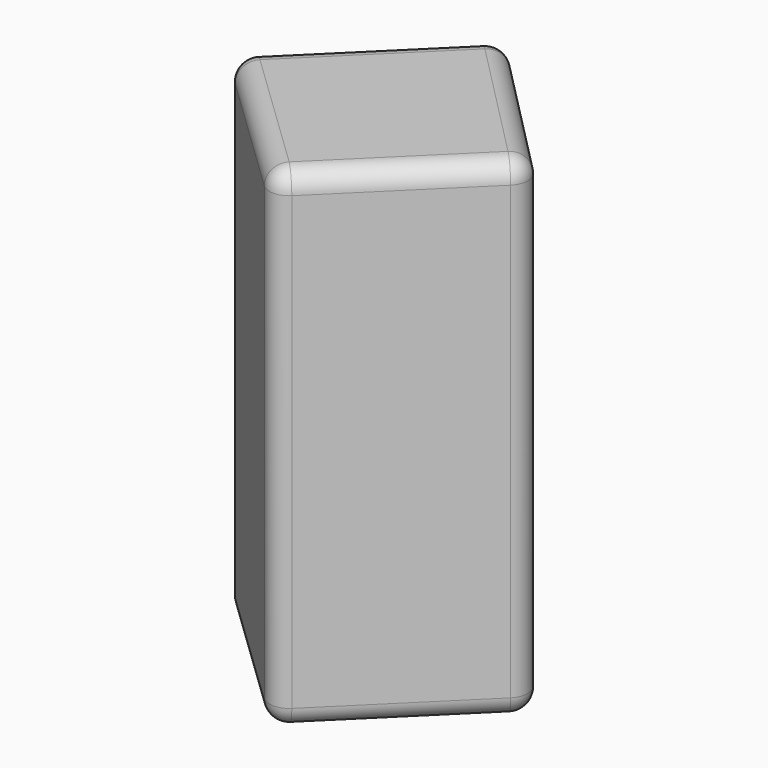
from build123d import *

# Parameters (mm, degrees)
F1_DEPTH = 63.5
F3_R     = 5.08


with BuildPart() as f1:
    # F0 (on Top) → F1 (new body, symmetric)
    with BuildSketch(Plane.XY):
        Polygon((0, 39.33689), (-39.878234, 0), (0, -38.276148), (38.802894, 0), align=None)
    extrude(amount=F1_DEPTH, both=True)

    # F3
    f3_edges = [f1.edges().sort_by_distance(p)[0] for p in [
        (19.401447, 19.668445, 63.5),
        (19.401447, 19.668445, -63.5),
        (0, 39.33689, 0),
        (38.802894, 0, 0),
        (19.401447, -19.138074, 63.5),
        (-19.939117, -19.138074, 63.5),
        (-19.939117, 19.668445, 63.5),
        (0, -38.276148, 0),
        (-39.878234, 0, 0),
        (-19.939117, -19.138074, -63.5),
        (19.401447, -19.138074, -63.5),
        (-19.939117, 19.668445, -63.5),
    ]]
    fillet(f3_edges, radius=F3_R)


solid = f1.part
